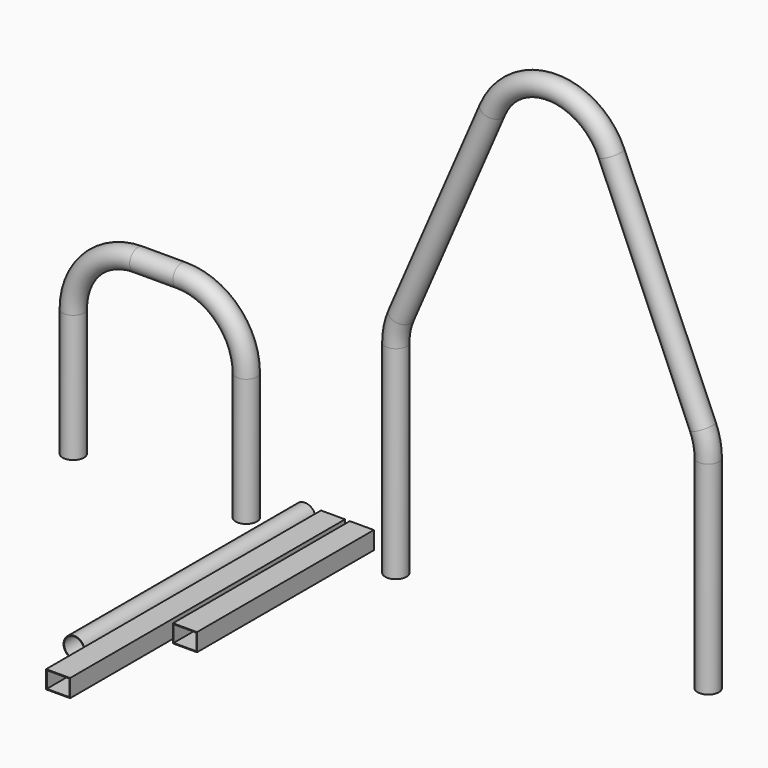
from build123d import *

# Parameters (mm, degrees)
F0_R     = 22.225
F0_R_2   = 20.905
F1_DEPTH = 600
F0_W     = 50
F0_H     = 37.0557815768
F0_W_2   = 47
F0_H_2   = 34.0557815768
F2_DEPTH = 715
F3_DEPTH = 460
F5_R     = 22.225
F5_R_2   = 20.905


with BuildPart() as f1:
    # F0 (on Front) → F1 (new body)
    with BuildSketch(Plane.XZ):
        Circle(F0_R)
        Circle(F0_R_2, mode=Mode.SUBTRACT)
    extrude(amount=F1_DEPTH)


with BuildPart() as f2:
    # F0 (on Front) → F2 (new body)
    with BuildSketch(Plane.XZ):
        with Locations((58.4081575274, 0.1773315016)):
            Rectangle(F0_W, F0_H)
        with Locations((58.4081575274, 0.1773315016)):
            Rectangle(F0_W_2, F0_H_2, mode=Mode.SUBTRACT)
    extrude(amount=F2_DEPTH)


with BuildPart() as f3:
    # F0 (on Front) → F3 (new body)
    with BuildSketch(Plane.XZ):
        with Locations((118.4081575274, 0.1773315016)):
            Rectangle(F0_W, F0_H)
        with Locations((118.4081575274, 0.1773315016)):
            Rectangle(F0_W_2, F0_H_2, mode=Mode.SUBTRACT)
    extrude(amount=F3_DEPTH)


with BuildPart() as f6:
    # F6: sweep along a path in F0
    with BuildLine(Plane.XZ) as f6_path:
        Line((189.1187697333, -45.0220961021), (189.1187697333, 376.9779038979))
        ThreePointArc((189.1187697333, 376.9779038979), (191.9320268307, 404.394413537), (200.2545475228, 430.6682610971))
        Line((200.2545475228, 430.6682610971), (390.2545475228, 869.0002716791))
        ThreePointArc((390.2545475228, 869.0002716791), (514.1187697333, 950.3099144799), (637.9829919439, 869.0002716791))
        Line((637.9829919439, 869.0002716791), (827.9829919439, 430.6682610971))
        ThreePointArc((827.9829919439, 430.6682610971), (836.305512636, 404.394413537), (839.1187697333, 376.9779038979))
        Line((839.1187697333, 376.9779038979), (839.1187697333, -45.0220961021))
    # F5 (on plane+point) → F6 (sweep)
    with BuildSketch(Plane(origin=(0, 0, -45.0220961021), x_dir=(1, 0, 0), z_dir=(0, 0, -1))):
        with Locations((189.1187697333, 0)):
            Circle(F5_R)
        with Locations((189.1187697333, 0)):
            Circle(F5_R_2, mode=Mode.SUBTRACT)
    sweep(path=f6_path.line)


with BuildPart() as f7:
    # F7: sweep along a path in F0
    with BuildLine(Plane.XZ) as f7_path:
        Line((-481.9855577069, -45.0220961021), (-481.9855577069, 219.9779038979))
        ThreePointArc((-481.9855577069, 219.9779038979), (-442.4449731671, 315.4373193581), (-346.9855577069, 354.9779038979))
        Line((-346.9855577069, 354.9779038979), (-256.9855577069, 354.9779038979))
        ThreePointArc((-256.9855577069, 354.9779038979), (-161.5261422467, 315.4373193581), (-121.9855577069, 219.9779038979))
        Line((-121.9855577069, 219.9779038979), (-121.9855577069, -45.0220961021))
    # F5 (on plane+point) → F7 (sweep)
    with BuildSketch(Plane(origin=(0, 0, -45.0220961021), x_dir=(1, 0, 0), z_dir=(0, 0, -1))):
        with Locations((-481.9855577069, 0)):
            Circle(F5_R)
        with Locations((-481.9855577069, 0)):
            Circle(F5_R_2, mode=Mode.SUBTRACT)
    sweep(path=f7_path.line)


solid = Compound([f1.part, f2.part, f3.part, f6.part, f7.part])
